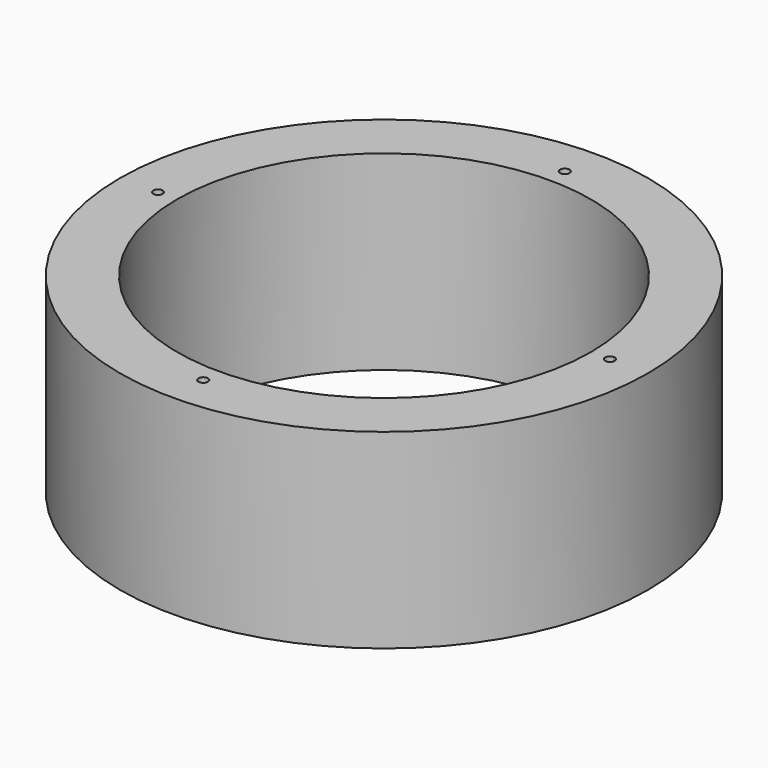
from build123d import *

# Parameters (mm, degrees)
F0_R     = 138.5
F0_R_2   = 108.5
F1_DEPTH = 100
F3_DEPTH = 25
F5_DEPTH = 25


with BuildPart() as f1:
    # F0 (on Top) → F1 (new body)
    with BuildSketch(Plane.XY):
        Circle(F0_R)
        Circle(F0_R_2, mode=Mode.SUBTRACT)
    extrude(amount=F1_DEPTH)

    # F2 (on face) → F3 (cut)
    with BuildSketch(Plane.XY.offset(100)):
        with BuildLine():
            ThreePointArc((-2.499860907, 118.473628692), (0, 118.5), (2.499860907, 118.473628692))
            ThreePointArc((2.499860907, 118.473628692), (2.4999652265, 118.4868141626), (2.5, 118.5))
            ThreePointArc((2.5, 118.5), (-0.0131858374, 120.9999652265), (-2.499860907, 118.473628692))
        make_face()
        with BuildLine():
            ThreePointArc((-2.499860907, 118.473628692), (0, 116), (2.499860907, 118.473628692))
            ThreePointArc((2.499860907, 118.473628692), (0, 118.5), (-2.499860907, 118.473628692))
        make_face()
        with BuildLine():
            ThreePointArc((-116, 0), (-116.7229338406, 1.7584185693), (-118.473628692, 2.499860907))
            ThreePointArc((-118.473628692, 2.499860907), (-118.5, 0), (-118.473628692, -2.499860907))
            ThreePointArc((-118.473628692, -2.499860907), (-116.7229338406, -1.7584185693), (-116, 0))
        make_face()
        with BuildLine():
            ThreePointArc((-118.473628692, -2.499860907), (-118.5, 0), (-118.473628692, 2.499860907))
            ThreePointArc((-118.473628692, 2.499860907), (-121, 0), (-118.473628692, -2.499860907))
        make_face()
        with BuildLine():
            ThreePointArc((118.473628692, -2.499860907), (118.4934069896, -1.25), (118.5, 0))
            ThreePointArc((118.5, 0), (118.4934069896, 1.25), (118.473628692, 2.499860907))
            ThreePointArc((118.473628692, 2.499860907), (116, 0), (118.473628692, -2.499860907))
        make_face()
        with BuildLine():
            ThreePointArc((118.473628692, 2.499860907), (118.4934069896, 1.25), (118.5, 0))
            ThreePointArc((118.5, 0), (118.4934069896, -1.25), (118.473628692, -2.499860907))
            ThreePointArc((118.473628692, -2.499860907), (120.2584185693, -1.7770661594), (121, 0))
            ThreePointArc((121, 0), (120.2584185693, 1.7770661594), (118.473628692, 2.499860907))
        make_face()
        with BuildLine():
            ThreePointArc((-2.499860907, -118.473628692), (0, -118.5), (2.499860907, -118.473628692))
            ThreePointArc((2.499860907, -118.473628692), (0, -116), (-2.499860907, -118.473628692))
        make_face()
        with BuildLine():
            ThreePointArc((2.5, -118.5), (2.4999652265, -118.4868141626), (2.499860907, -118.473628692))
            ThreePointArc((2.499860907, -118.473628692), (0, -118.5), (-2.499860907, -118.473628692))
            ThreePointArc((-2.499860907, -118.473628692), (-0.0131858374, -120.9999652265), (2.5, -118.5))
        make_face()
    extrude(amount=-F3_DEPTH, mode=Mode.SUBTRACT)

    # F4 (on face) → F5 (cut)
    with BuildSketch(Plane(origin=(0, 0, 0), x_dir=(1, 0, 0), z_dir=(0, 0, -1))):
        with BuildLine():
            ThreePointArc((-2.499860907, 118.473628692), (0, 118.5), (2.499860907, 118.473628692))
            ThreePointArc((2.499860907, 118.473628692), (2.4999652265, 118.4868141626), (2.5, 118.5))
            ThreePointArc((2.5, 118.5), (-0.0131858374, 120.9999652265), (-2.499860907, 118.473628692))
        make_face()
        with BuildLine():
            ThreePointArc((-2.499860907, 118.473628692), (0, 116), (2.499860907, 118.473628692))
            ThreePointArc((2.499860907, 118.473628692), (0, 118.5), (-2.499860907, 118.473628692))
        make_face()
        with BuildLine():
            ThreePointArc((-118.473628692, -2.499860907), (-118.5, 0), (-118.473628692, 2.499860907))
            ThreePointArc((-118.473628692, 2.499860907), (-121, 0), (-118.473628692, -2.499860907))
        make_face()
        with BuildLine():
            ThreePointArc((-116, 0), (-116.7229338406, 1.7584185693), (-118.473628692, 2.499860907))
            ThreePointArc((-118.473628692, 2.499860907), (-118.5, 0), (-118.473628692, -2.499860907))
            ThreePointArc((-118.473628692, -2.499860907), (-116.7229338406, -1.7584185693), (-116, 0))
        make_face()
        with BuildLine():
            ThreePointArc((118.473628692, -2.499860907), (118.4934069896, -1.25), (118.5, 0))
            ThreePointArc((118.5, 0), (118.4934069896, 1.25), (118.473628692, 2.499860907))
            ThreePointArc((118.473628692, 2.499860907), (116, 0), (118.473628692, -2.499860907))
        make_face()
        with BuildLine():
            ThreePointArc((118.473628692, 2.499860907), (118.4934069896, 1.25), (118.5, 0))
            ThreePointArc((118.5, 0), (118.4934069896, -1.25), (118.473628692, -2.499860907))
            ThreePointArc((118.473628692, -2.499860907), (120.2584185693, -1.7770661594), (121, 0))
            ThreePointArc((121, 0), (120.2584185693, 1.7770661594), (118.473628692, 2.499860907))
        make_face()
        with BuildLine():
            ThreePointArc((-2.499860907, -118.473628692), (0, -118.5), (2.499860907, -118.473628692))
            ThreePointArc((2.499860907, -118.473628692), (0, -116), (-2.499860907, -118.473628692))
        make_face()
        with BuildLine():
            ThreePointArc((2.5, -118.5), (2.4999652265, -118.4868141626), (2.499860907, -118.473628692))
            ThreePointArc((2.499860907, -118.473628692), (0, -118.5), (-2.499860907, -118.473628692))
            ThreePointArc((-2.499860907, -118.473628692), (-0.0131858374, -120.9999652265), (2.5, -118.5))
        make_face()
    extrude(amount=-F5_DEPTH, mode=Mode.SUBTRACT)


solid = f1.part
